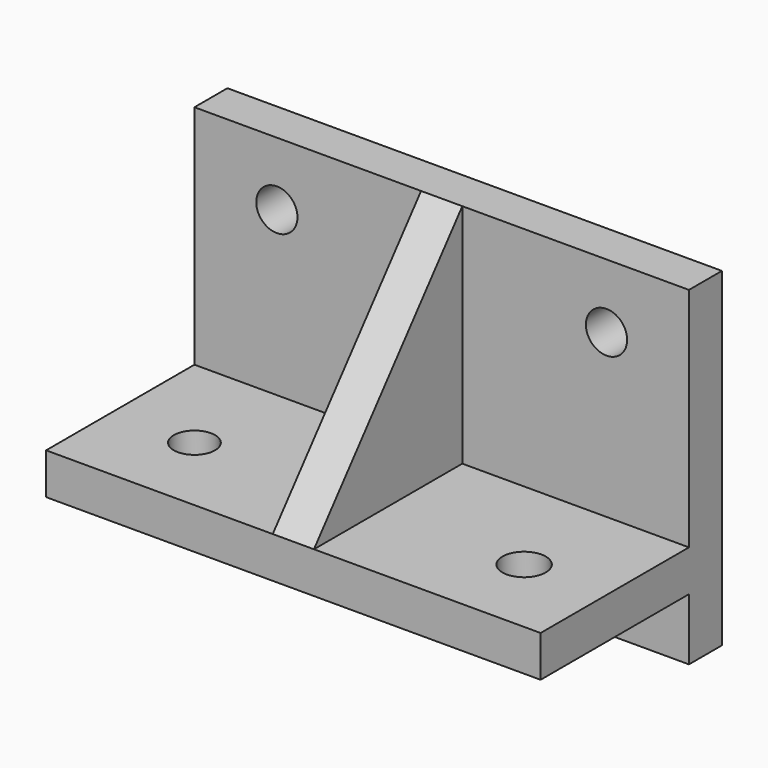
from build123d import *

# Parameters (mm, degrees)
F0_W     = 120
F0_H     = 15
F0_H_2   = 13.18299
F0_H_3   = 51.81701
F0_R     = 5
F1_DEPTH = 10
F2_W     = 120
F2_H     = 10
F3_DEPTH = 45
F4_R     = 5
F4_R_2   = 5.25369
F5_DEPTH = 25
F6_W     = 10
F6_H     = 55
F7_DEPTH = 45
F9_DEPTH = 10


with BuildPart() as f1:
    # F0 (on Front) → F1 (new body)
    with BuildSketch(Plane.XZ):
        with Locations((0, -32.5)):
            Rectangle(F0_W, F0_H)
        with Locations((0, -18.408505)):
            Rectangle(F0_W, F0_H_2)
        with Locations((0, 14.091495)):
            Rectangle(F0_W, F0_H_3)
        with Locations((-40, 24.60571)):
            Circle(F0_R, mode=Mode.SUBTRACT)
        with Locations((40, 24.445876)):
            Circle(F0_R, mode=Mode.SUBTRACT)
    extrude(amount=F1_DEPTH)

    # F2 (on face) → F3 (join)
    with BuildSketch(Plane.XZ.offset(10)):
        with Locations((0, -20)):
            Rectangle(F2_W, F2_H)
    extrude(amount=F3_DEPTH)

    # F4 (on face) → F5 (cut)
    with BuildSketch(Plane.XY.offset(-15)):
        with Locations((-40, -35)):
            Circle(F4_R)
        with Locations((40, -35)):
            Circle(F4_R_2)
    extrude(amount=-F5_DEPTH, mode=Mode.SUBTRACT)

    # F6 (on face) → F7 (join)
    with BuildSketch(Plane.XZ.offset(10)):
        with Locations((0, 12.5)):
            Rectangle(F6_W, F6_H)
    extrude(amount=F7_DEPTH)

    # F8 (on face) → F9 (cut)
    with BuildSketch(Plane.YZ.offset(5)):
        Polygon((-55, -15), (-10, 40), (-55, 40), align=None)
    extrude(amount=-F9_DEPTH, mode=Mode.SUBTRACT)


solid = f1.part
